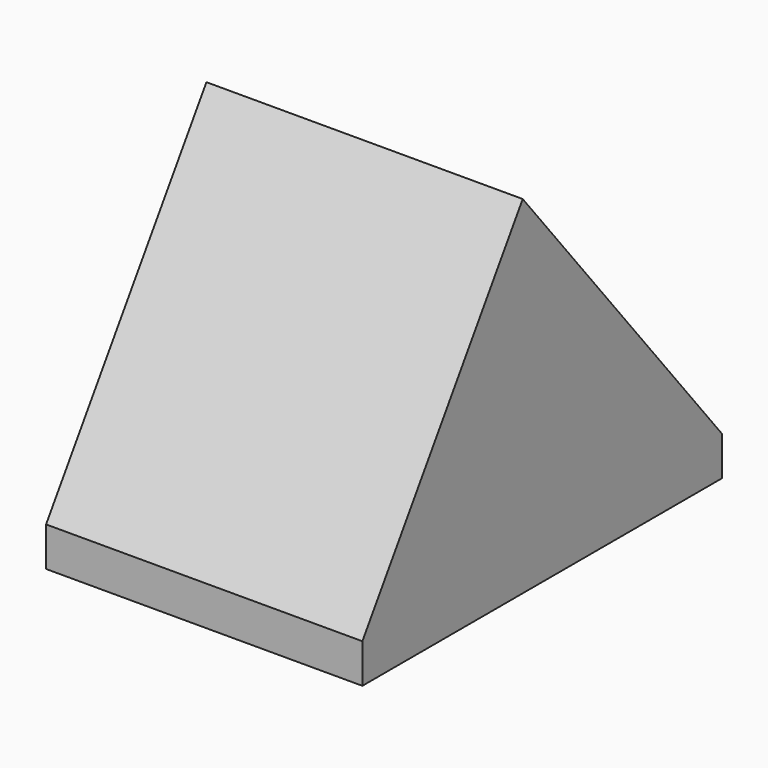
from build123d import *

# Parameters (mm, degrees)
F0_W     = 93.841814
F0_H     = 8.198866
F1_DEPTH = 66.04


with BuildPart() as f1:
    # F0 (on Right) → F1 (new body)
    with BuildSketch(Plane.YZ):
        Rectangle(F0_W, F0_H)
        Polygon((-46.920907, 4.099433), (46.920907, 4.099433), (-5.070768, 68.376362), align=None)
    extrude(amount=F1_DEPTH)


solid = f1.part
